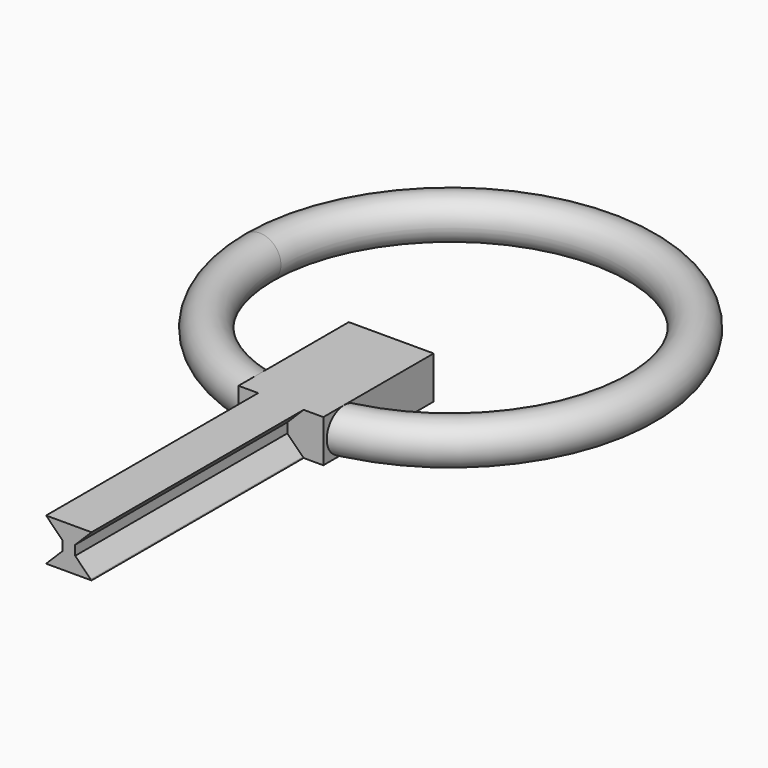
from build123d import *

# Parameters (mm, degrees)
F0_R     = 2
F2_W     = 4
F2_H     = 13
F3_DEPTH = 2
F5_DEPTH = 25


with BuildPart() as f1:
    # F0 (on Front) → F1 (revolve)
    with BuildSketch(Plane.XZ):
        with Locations((-18, 0)):
            Circle(F0_R)
    revolve(axis=Axis((0, 0, 11.250001), (0, 0, 1)))

    # F2 (on Top) → F3 (join, symmetric)
    with BuildSketch(Plane.XY):
        with Locations((2, -13.5)):
            Rectangle(F2_W, F2_H)
        with Locations((-2, -13.5)):
            Rectangle(F2_W, F2_H)
    extrude(amount=F3_DEPTH, both=True)

    # F4 (on face) → F5 (join)
    with BuildSketch(Plane.XZ.offset(20)):
        Polygon((0.5, 0.5), (2, 2), (0.5, 2), (0, 2), (-0.5, 2), (-2, 2), (-0.5, 0.5), (-0.5, -0.5), (-2, -2), (-0.5, -2), (0.5, -2), (2, -2), (0.5, -0.5), align=None)
        Polygon((2.070711, 1.929289), (2.141421, 2), (2, 2), (0.5, 0.5), (0.5, -0.5), (2, -2), (2.141421, -2), (2.070711, -1.929289), (0.6, -0.458579), (0.6, 0.458579), align=None)
        Polygon((-0.5, 0.5), (-2, 2), (-2.141421, 2), (-2.070711, 1.929289), (-0.6, 0.458579), (-0.6, -0.458579), (-2.070711, -1.929289), (-2.141421, -2), (-2, -2), (-0.5, -0.5), align=None)
    extrude(amount=F5_DEPTH)


solid = f1.part
